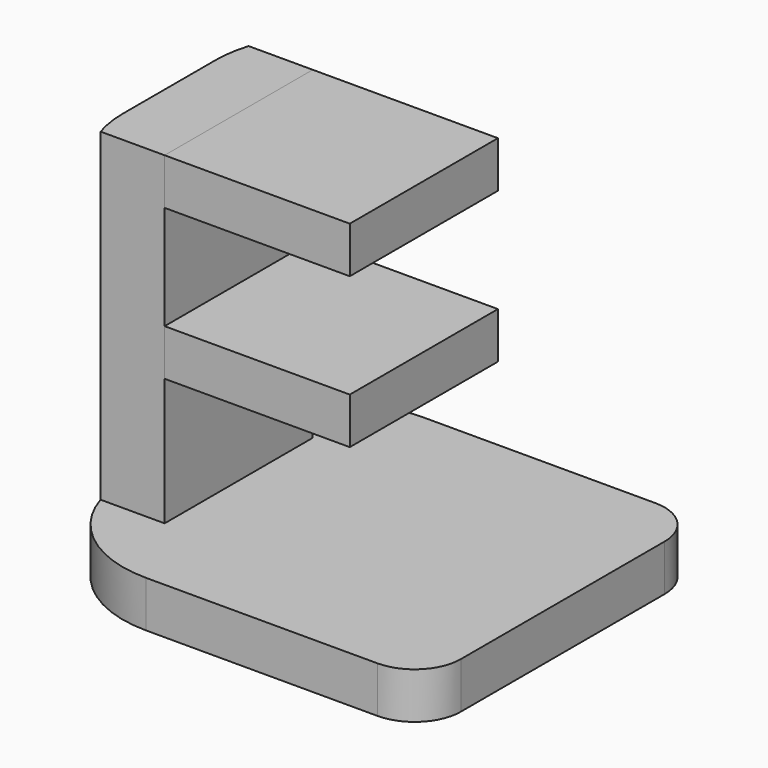
from build123d import *

# Parameters (mm, degrees)
F0_W     = 17
F0_H     = 15
F1_DEPTH = 2
F3_DEPTH = 3
F4_W     = 8
F4_H     = 2
F5_DEPTH = 8
F6_R     = 5
F7_R     = 2


with BuildPart() as f1:
    # F0 (on Top) → F1 (new body)
    with BuildSketch(Plane.XY):
        with Locations((-30.8030308187, -7.5)):
            Rectangle(F0_W, F0_H)
    extrude(amount=F1_DEPTH)

    # F2 (on face) → F3 (join)
    with BuildSketch(Plane(origin=(-39.3030308187, 0, 0), x_dir=(0, -1, 0), z_dir=(-1, 0, 0))):
        Polygon((3.5, 2), (7.5, 2), (11.5, 2), (11.5, 16), (3.5, 16), align=None)
    extrude(amount=-F3_DEPTH)

    # F6
    f6_edges = [f1.edges().sort_by_distance(p)[0] for p in [
        (-39.303031, 0, 1),
        (-39.303031, -15, 1),
    ]]
    fillet(f6_edges, radius=F6_R)

    # F7
    f7_edges = [f1.edges().sort_by_distance(p)[0] for p in [
        (-22.303031, -15, 1),
        (-22.303031, 0, 1),
    ]]
    fillet(f7_edges, radius=F7_R)


with BuildPart() as f5:
    # F4 (on face) → F5 (new body)
    with BuildSketch(Plane(origin=(0, -3.5, 0), x_dir=(-1, 0, 0), z_dir=(0, 1, 0))):
        with Locations((32.3030308187, 8.5)):
            Rectangle(F4_W, F4_H)
    extrude(amount=-F5_DEPTH)


with BuildPart() as f5b:
    # F4 (on face) → F5, piece 2 (new body)
    with BuildSketch(Plane(origin=(0, -3.5, 0), x_dir=(-1, 0, 0), z_dir=(0, 1, 0))):
        with Locations((32.3030308187, 15)):
            Rectangle(F4_W, F4_H)
    extrude(amount=-F5_DEPTH)


solid = Compound([f1.part, f5.part, f5b.part])
